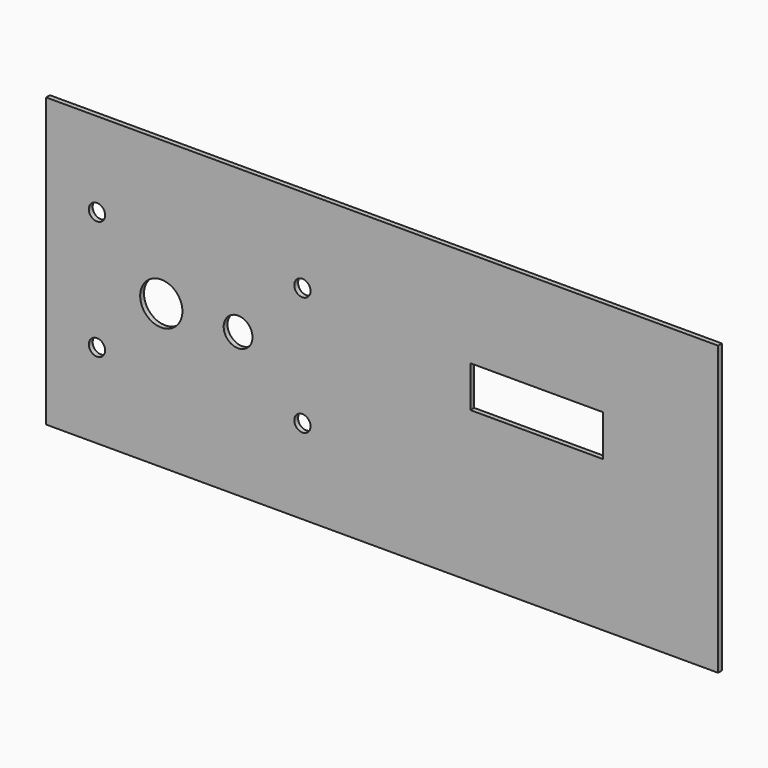
from build123d import *

# Parameters (mm, degrees)
F0_W     = 350
F0_H     = 150
F0_R     = 4.25
F0_R_2   = 11
F0_R_3   = 7.5
F0_W_2   = 69
F0_H_2   = 21.5
F1_DEPTH = 2.5


with BuildPart() as f1:
    # F0 (on Front) → F1 (new body)
    with BuildSketch(Plane.XZ):
        Rectangle(F0_W, F0_H)
        with Locations((-148.5, -31)):
            Circle(F0_R, mode=Mode.SUBTRACT)
        with Locations((-41.5, -31)):
            Circle(F0_R, mode=Mode.SUBTRACT)
        with Locations((-115, 0)):
            Circle(F0_R_2, mode=Mode.SUBTRACT)
        with Locations((-148.5, 31)):
            Circle(F0_R, mode=Mode.SUBTRACT)
        with Locations((-75, 0)):
            Circle(F0_R_3, mode=Mode.SUBTRACT)
        with Locations((-41.5, 31)):
            Circle(F0_R, mode=Mode.SUBTRACT)
        with Locations((80.5, 14.25)):
            Rectangle(F0_W_2, F0_H_2, mode=Mode.SUBTRACT)
    extrude(amount=F1_DEPTH)


solid = f1.part
